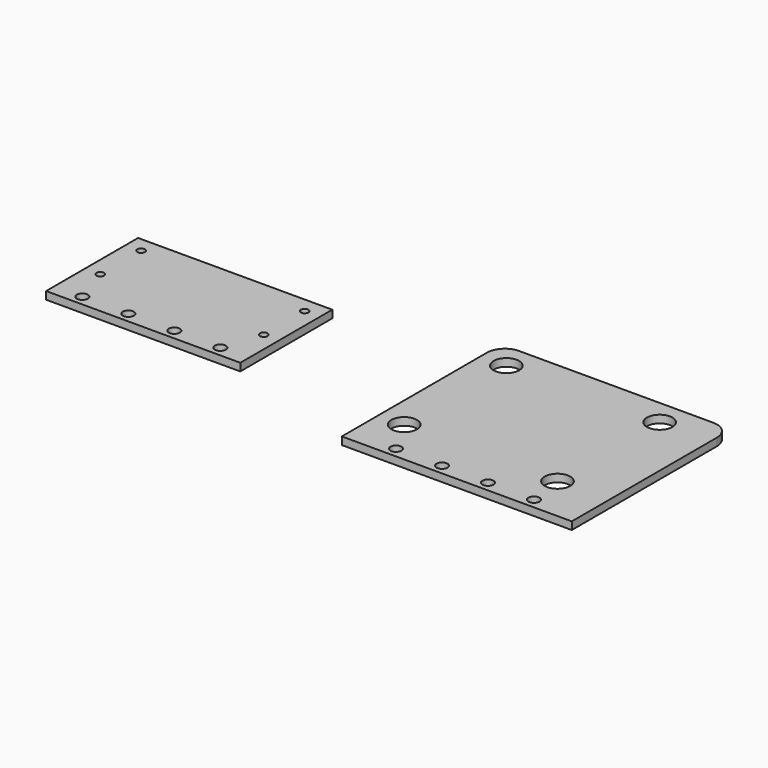
from build123d import *

# Parameters (mm, degrees)
F0_R     = 2.15
F0_R_2   = 5
F1_DEPTH = 3
F2_W     = 76
F2_H     = 45
F2_R     = 2.15
F2_R_2   = 1.5
F3_DEPTH = 3


with BuildPart() as f1:
    # F0 (on Top) → F1 (new body)
    with BuildSketch(Plane.XY):
        with BuildLine():
            Line((48.041456, -38.370075), (48.041456, -30.370075))
            Line((48.041456, -30.370075), (48.041456, 32.629925))
            ThreePointArc((48.041456, 32.629925), (45.991203, 37.579672), (41.041456, 39.629925))
            Line((41.041456, 39.629925), (-34.958544, 39.629925))
            ThreePointArc((-34.958544, 39.629925), (-39.908292, 37.579672), (-41.958544, 32.629925))
            Line((-41.958544, 32.629925), (-41.958544, -30.370075))
            Line((-41.958544, -30.370075), (-41.958544, -38.370075))
            Line((-41.958544, -38.370075), (48.041456, -38.370075))
        make_face()
        with Locations((-23.958544, -34.370075)):
            Circle(F0_R, mode=Mode.SUBTRACT)
        with Locations((-31.958544, -20.370075)):
            Circle(F0_R_2, mode=Mode.SUBTRACT)
        with Locations((-5.958544, -34.370075)):
            Circle(F0_R, mode=Mode.SUBTRACT)
        with Locations((12.041456, -34.370075)):
            Circle(F0_R, mode=Mode.SUBTRACT)
        with Locations((30.041456, -34.370075)):
            Circle(F0_R, mode=Mode.SUBTRACT)
        with Locations((28.041456, -20.370075)):
            Circle(F0_R_2, mode=Mode.SUBTRACT)
        with Locations((-31.958544, 29.629925)):
            Circle(F0_R_2, mode=Mode.SUBTRACT)
        with Locations((28.041456, 29.629925)):
            Circle(F0_R_2, mode=Mode.SUBTRACT)
    extrude(amount=F1_DEPTH)


with BuildPart() as f3:
    # F2 (on Top) → F3 (new body)
    with BuildSketch(Plane.XY):
        with Locations((-134.641795, 2.798244)):
            Rectangle(F2_W, F2_H)
        with Locations((-161.641795, -15.701756)):
            Circle(F2_R, mode=Mode.SUBTRACT)
        with Locations((-143.641795, -15.701756)):
            Circle(F2_R, mode=Mode.SUBTRACT)
        with Locations((-166.641795, -0.701756)):
            Circle(F2_R_2, mode=Mode.SUBTRACT)
        with Locations((-125.641795, -15.701756)):
            Circle(F2_R, mode=Mode.SUBTRACT)
        with Locations((-107.641795, -15.701756)):
            Circle(F2_R, mode=Mode.SUBTRACT)
        with Locations((-102.641795, -0.701756)):
            Circle(F2_R_2, mode=Mode.SUBTRACT)
        with Locations((-166.641795, 19.298244)):
            Circle(F2_R_2, mode=Mode.SUBTRACT)
        with Locations((-102.641795, 19.298244)):
            Circle(F2_R_2, mode=Mode.SUBTRACT)
    extrude(amount=F3_DEPTH)


solid = Compound([f1.part, f3.part])
